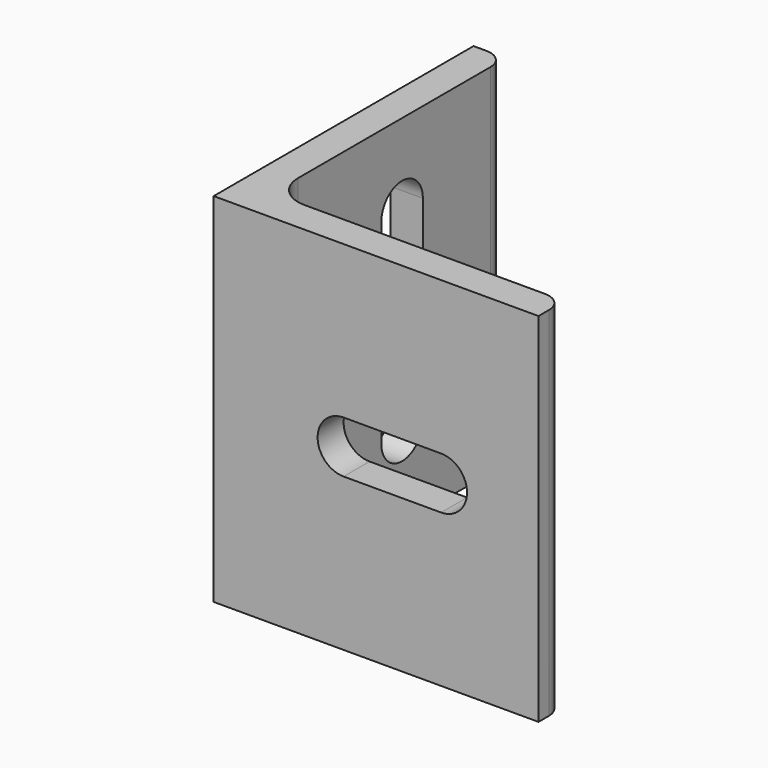
from build123d import *

# Parameters (mm, degrees)
F1_DEPTH = 27.5
F2_R     = 5
F3_R     = 3
F5_DEPTH = 5.001
F7_DEPTH = 5.001


with BuildPart() as f1:
    # F0 (on Top) → F1 (new body, symmetric)
    with BuildSketch(Plane.XY):
        Polygon((5, 0), (0, 0), (0, -50), (50, -50), (50, -45), (5, -45), align=None)
    extrude(amount=F1_DEPTH, both=True)

    # F2
    f2_edges = [f1.edges().sort_by_distance(p)[0] for p in [
        (5, -45, 0),
    ]]
    fillet(f2_edges, radius=F2_R)

    # F3
    f3_edges = [f1.edges().sort_by_distance(p)[0] for p in [
        (5, 0, 0),
        (50, -45, 0),
    ]]
    fillet(f3_edges, radius=F3_R)

    # F4 (on face) → F5 (cut, through all)
    with BuildSketch(Plane.YZ.offset(5)):
        with BuildLine():
            ThreePointArc((-16, 15), (-20, 19), (-24, 15))
            Line((-24, 15), (-24, -15))
            ThreePointArc((-24, -15), (-20, -19), (-16, -15))
            Line((-16, -15), (-16, 15))
        make_face()
    extrude(amount=-F5_DEPTH, mode=Mode.SUBTRACT)

    # F6 (on face) → F7 (cut, through all)
    with BuildSketch(Plane(origin=(0, -45, 0), x_dir=(-1, 0, 0), z_dir=(0, 1, 0))):
        with BuildLine():
            Line((-20, 4), (-35, 4))
            ThreePointArc((-35, 4), (-39, 0), (-35, -4))
            Line((-35, -4), (-20, -4))
            ThreePointArc((-20, -4), (-16, 0), (-20, 4))
        make_face()
    extrude(amount=-F7_DEPTH, mode=Mode.SUBTRACT)


solid = f1.part
